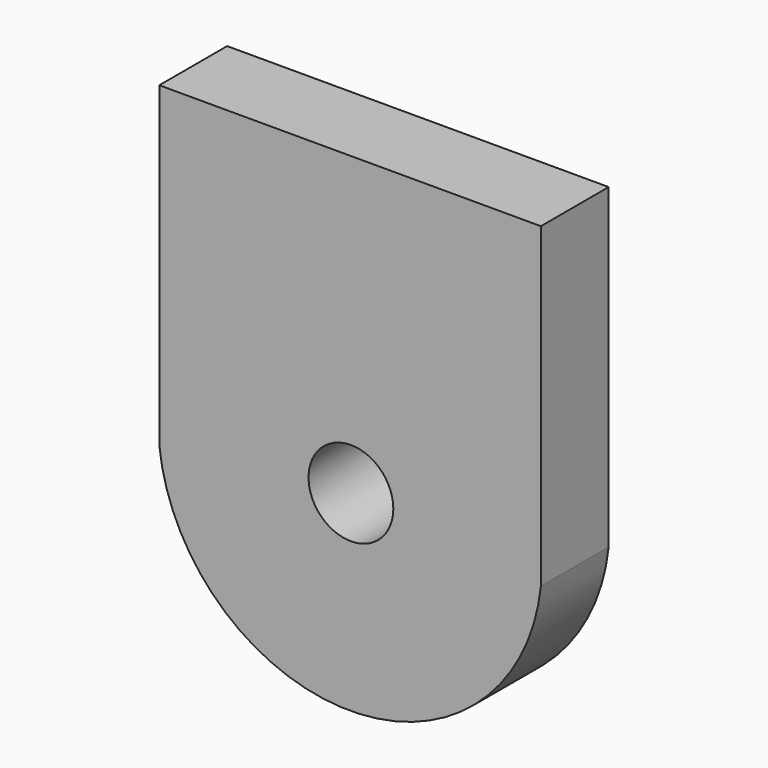
from build123d import *

# Parameters (mm, degrees)
SKETCH330_AS_DRAWN_R                 = 1
EXTRUDE200_DEPTH                     = 5
EXTRUDE200_ONTO_SKETCH330_ROLL_ANGLE = 90
EXTRUDE201_DEPTH                     = 2
EXTRUDE201_ONTO_SKETCH329_ROLL_ANGLE = 90


with BuildPart() as extrude200:
    # Sketch330 as drawn → Extrude200 (new)
    with BuildSketch(Plane.XY):
        with Locations((-45, 11)):
            Circle(SKETCH330_AS_DRAWN_R)
    extrude(amount=-EXTRUDE200_DEPTH)


with BuildPart() as extrude200_1:
    # Extrude200 onto Sketch330 roll: moved
    add(extrude200.part.rotate(Axis((0, 0, 0), (1, 0, 0)), EXTRUDE200_ONTO_SKETCH330_ROLL_ANGLE))


with BuildPart() as extrude200_2:
    # Extrude200 onto Sketch330 placement: moved
    add(extrude200_1.part.moved(Location((0.25, 0, 0))))


with BuildPart() as extrude200_3:
    # Extrude200 placement: moved
    add(extrude200_2.part.moved(Location((0, 8, 0))))


with BuildPart() as obj1:
    # Sketch329 as drawn → Extrude201 (new)
    with BuildSketch(Plane.XY):
        with BuildLine():
            ThreePointArc((-49, 10.52425), (-44.500001, 6.474921), (-40, 10.524249))
            Line((-40, 10.524249), (-40, 18))
            Line((-49, 18), (-40, 18))
            Line((-49, 18), (-49, 10.52425))
        make_face()
    extrude(amount=-EXTRUDE201_DEPTH)


with BuildPart() as obj1_1:
    # Extrude201 onto Sketch329 roll: moved
    add(obj1.part.rotate(Axis((0, 0, 0), (1, 0, 0)), EXTRUDE201_ONTO_SKETCH329_ROLL_ANGLE))


with BuildPart() as obj1_2:
    # Extrude201 onto Sketch329 placement: moved
    add(obj1_1.part)


with BuildPart() as obj1_3:
    # Extrude201 placement: moved
    add(obj1_2.part.moved(Location((-0.27, 10, 0))))

    # Cut107: cut Extrude200
    add(extrude200_3.part, mode=Mode.SUBTRACT)


with BuildPart() as obj1_4:
    # Cut107 placement: moved
    add(obj1_3.part.moved(Location((0, -22, 0))))


solid = obj1_4.part
